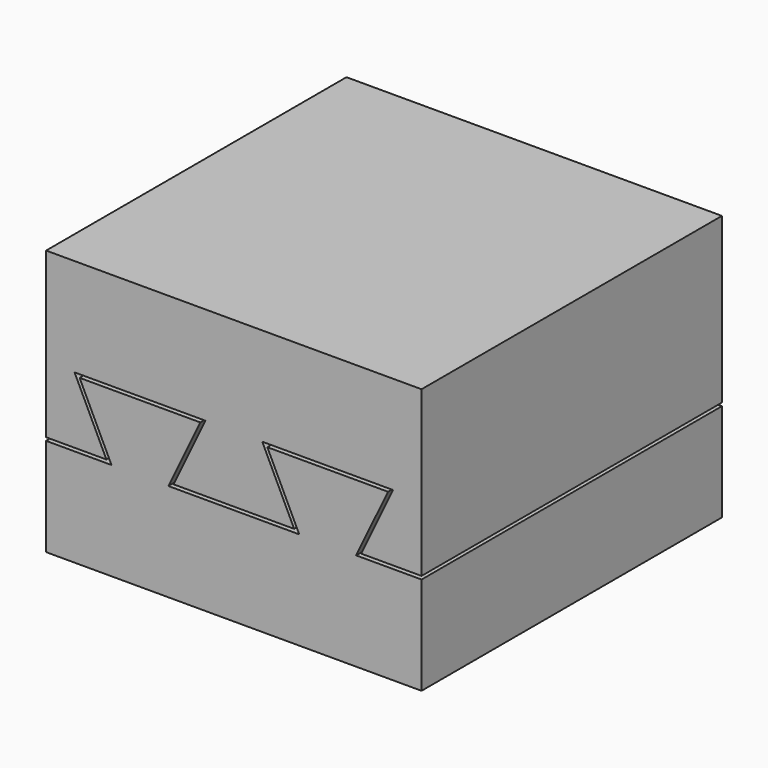
from build123d import *

# Parameters (mm, degrees)
F0_W     = 35.3553390593
F0_H     = 35.3553390593
F1_DEPTH = 25
F3_DEPTH = 35.3553390593


with BuildPart() as f1:
    # F0 (on Top) → F1 (new body)
    with BuildSketch(Plane.XY):
        with Locations((17.6776695297, -17.6776695297)):
            Rectangle(F0_W, F0_H)
    extrude(amount=F1_DEPTH)

    # F2 (on face) → F3 (cut, through all)
    with BuildSketch(Plane.XZ.offset(35.3553390593)):
        Polygon((35.3553390593, 9.225), (35.3553390593, 9.375), (35.3553390593, 9.525), (29.6743067724, 9.525), (32.6743067724, 15.775), (20.3587018166, 15.775), (23.3587018166, 9.525), (11.9966372427, 9.525), (14.9966372427, 15.775), (2.6810322869, 15.775), (5.6810322869, 9.525), (0, 9.525), (0, 9.225), (6.1578024779, 9.225), (3.1578024779, 15.475), (8.8388347648, 15.475), (14.5198670518, 15.475), (11.5198670518, 9.225), (17.6776695297, 9.225), (23.8354720076, 9.225), (20.8354720076, 15.475), (26.5165042945, 15.475), (32.1975365814, 15.475), (29.1975365814, 9.225), align=None)
    extrude(amount=-F3_DEPTH, mode=Mode.SUBTRACT)


solid = f1.part
